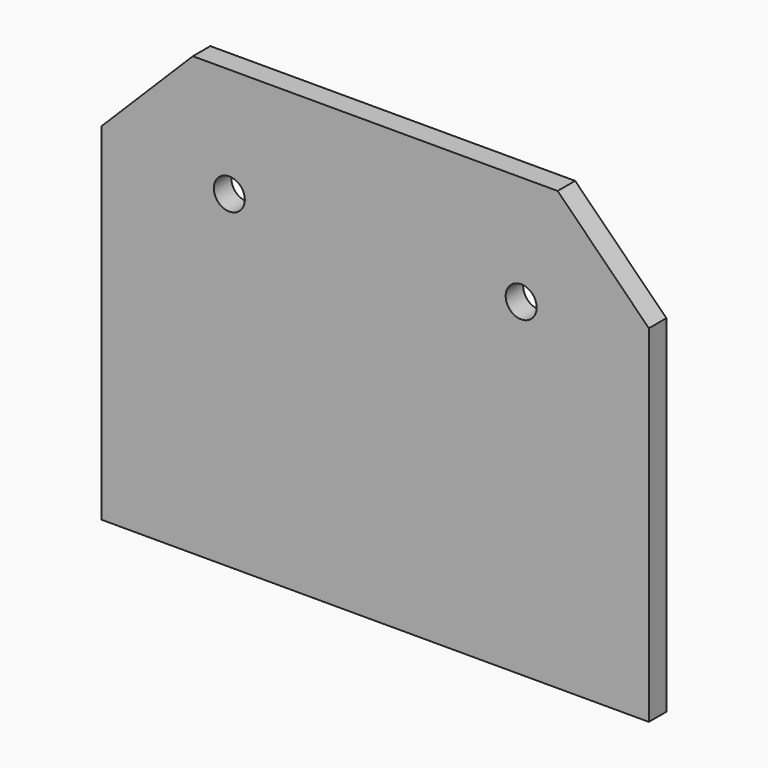
from build123d import *

# Parameters (mm, degrees)
F0_W     = 150
F0_H     = 120
F1_DEPTH = 6
F2_R     = 4.25
F3_DEPTH = 25
F4_SIZE  = 25


with BuildPart() as f1:
    # F0 (on Front) → F1 (new body)
    with BuildSketch(Plane.XZ):
        Rectangle(F0_W, F0_H)
    extrude(amount=F1_DEPTH)

    # F2 (on face) → F3 (cut)
    with BuildSketch(Plane.XZ.offset(6)):
        with Locations((-40, 30)):
            Circle(F2_R)
        with Locations((40, 30)):
            Circle(F2_R)
    extrude(amount=-F3_DEPTH, mode=Mode.SUBTRACT)

    # F4
    f4_edges = [f1.edges().sort_by_distance(p)[0] for p in [
        (-75, -3, 60),
        (75, -3, 60),
    ]]
    chamfer(f4_edges, length=F4_SIZE)


solid = f1.part
